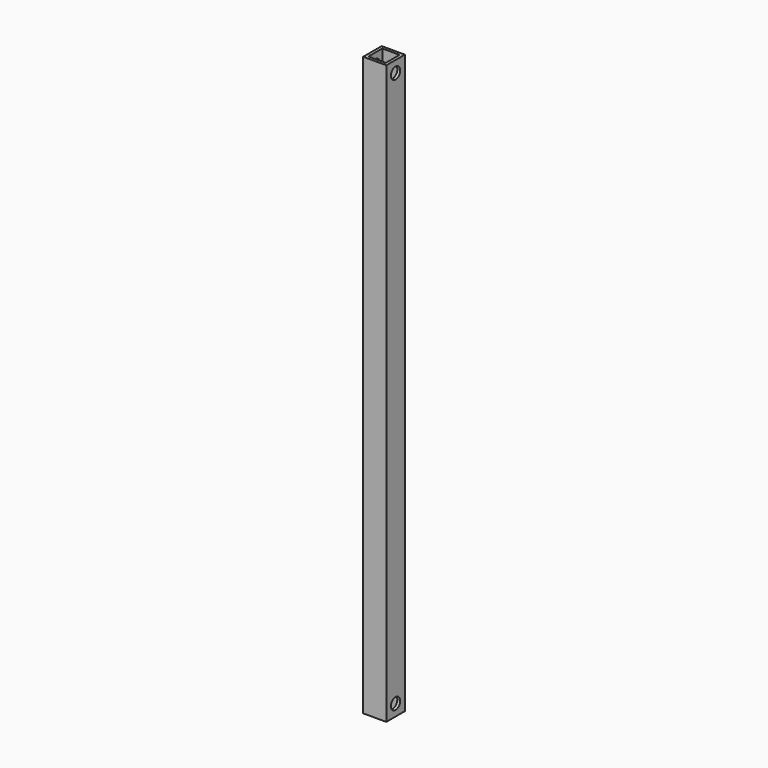
from build123d import *

# Parameters (mm, degrees)
F1_DEPTH = 317.5
F2_R     = 3.175
F3_DEPTH = 12.701


with BuildPart() as f1:
    # F0 (on Top) → F1 (new body)
    with BuildSketch(Plane.XY):
        Polygon((0, 4.7625), (4.7625, 4.7625), (4.7625, 0), (6.35, 0), (6.35, 6.35), (0, 6.35), align=None)
        Polygon((-4.7625, 4.7625), (0, 4.7625), (0, 6.35), (-6.35, 6.35), (-6.35, -6.35), (6.35, -6.35), (6.35, 0), (4.7625, 0), (4.7625, -4.7625), (-4.7625, -4.7625), align=None)
    extrude(amount=F1_DEPTH)

    # F2 (on face) → F3 (cut, through all)
    with BuildSketch(Plane.YZ.offset(6.35)):
        with Locations((0, 6.35)):
            Circle(F2_R)
        with Locations((0, 311.15)):
            Circle(F2_R)
    extrude(amount=-F3_DEPTH, mode=Mode.SUBTRACT)


solid = f1.part
